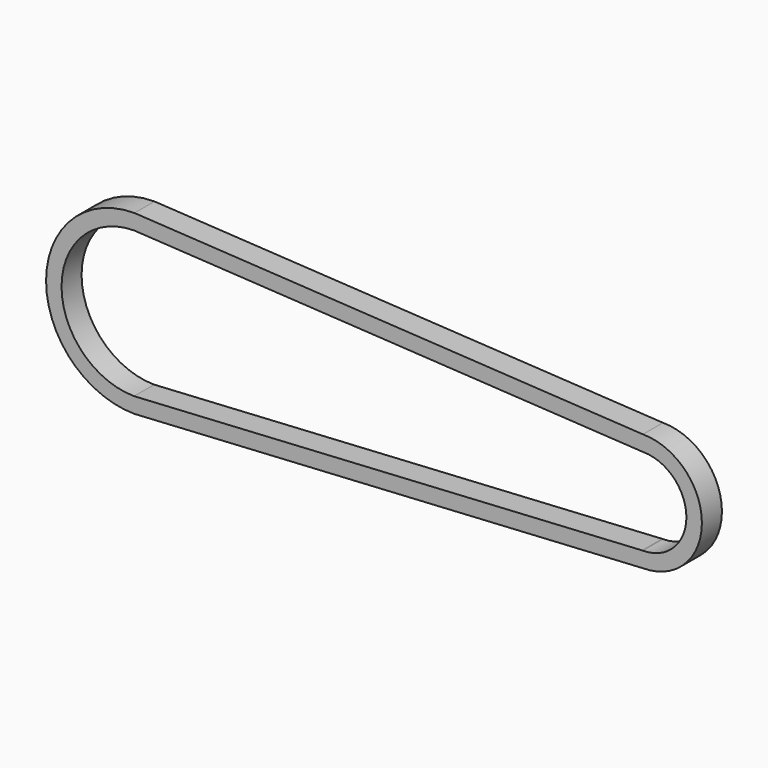
from build123d import *

# Parameters (mm, degrees)
F1_DEPTH = 10.795


with BuildPart() as f1:
    # F0 (on Front) → F1 (new body, symmetric)
    with BuildSketch(Plane.XZ):
        with BuildLine():
            Line((310.947118, 50.8), (-127.202882, 76.2))
            ThreePointArc((-127.202882, 76.2), (-203.402882, 0), (-127.202882, -76.2))
            Line((-127.202882, -76.2), (310.947118, -50.8))
            ThreePointArc((310.947118, -50.8), (361.747118, 0), (310.947118, 50.8))
        make_face()
        with BuildLine():
            Line((310.17537, -37.487351), (-127.570535, -62.863925))
            ThreePointArc((-127.570535, -62.863925), (-190.067882, 0), (-127.570535, 62.863925))
            Line((-127.570535, 62.863925), (310.17537, 37.487351))
            Line((310.17537, 37.487351), (310.947118, 37.465))
            ThreePointArc((310.947118, 37.465), (348.412118, 0), (310.947118, -37.465))
            Line((310.947118, -37.465), (310.17537, -37.487351))
        make_face(mode=Mode.SUBTRACT)
    extrude(amount=F1_DEPTH, both=True)


solid = f1.part
